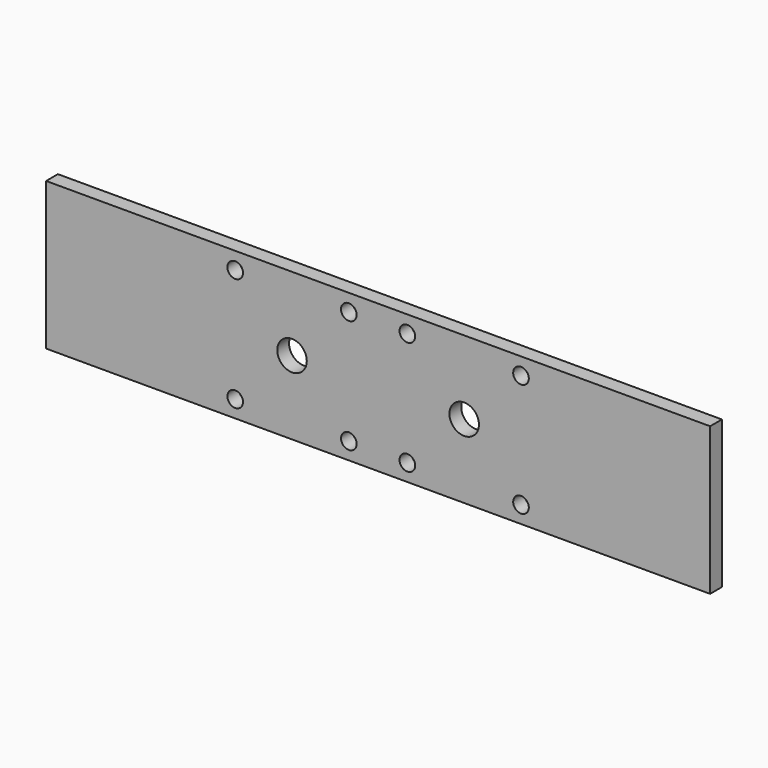
from build123d import *

# Parameters (mm, degrees)
SKETCH_W   = 270
SKETCH_H   = 60
SKETCH_R   = 6
SKETCH_R_2 = 3.175
PAD_DEPTH  = 6


with BuildPart() as part:
    # Sketch → Pad (new body)
    with BuildSketch(Plane.XZ):
        with Locations((135, 30)):
            Rectangle(SKETCH_W, SKETCH_H)
        with Locations((100, 30)):
            Circle(SKETCH_R, mode=Mode.SUBTRACT)
        with Locations((123.1013, 53.1013)):
            Circle(SKETCH_R_2, mode=Mode.SUBTRACT)
        with Locations((76.8987, 53.1013)):
            Circle(SKETCH_R_2, mode=Mode.SUBTRACT)
        with Locations((76.8987, 6.8987)):
            Circle(SKETCH_R_2, mode=Mode.SUBTRACT)
        with Locations((123.1013, 6.8987)):
            Circle(SKETCH_R_2, mode=Mode.SUBTRACT)
        with Locations((170, 30)):
            Circle(SKETCH_R, mode=Mode.SUBTRACT)
        with Locations((193.1013, 53.1013)):
            Circle(SKETCH_R_2, mode=Mode.SUBTRACT)
        with Locations((146.8987, 53.1013)):
            Circle(SKETCH_R_2, mode=Mode.SUBTRACT)
        with Locations((146.8987, 6.8987)):
            Circle(SKETCH_R_2, mode=Mode.SUBTRACT)
        with Locations((193.1013, 6.8987)):
            Circle(SKETCH_R_2, mode=Mode.SUBTRACT)
    extrude(amount=PAD_DEPTH)


solid = part.part
